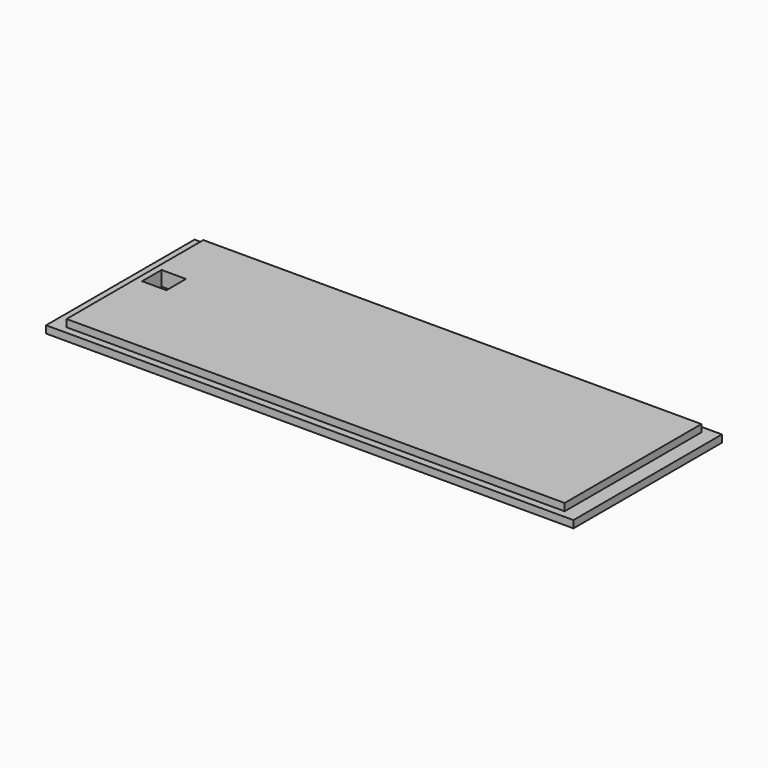
from build123d import *

# Parameters (mm, degrees)
SKETCH_W        = 108
SKETCH_H        = 38
PAD_DEPTH       = 3
SKETCH002_W     = 3
SKETCH002_H     = 38
POCKET_DEPTH    = 1.5
SKETCH003_W     = 3
SKETCH003_H     = 38
POCKET001_DEPTH = 1.5
SKETCH004_W     = 102
SKETCH004_H     = 1.5
POCKET002_DEPTH = 1.5
SKETCH005_W     = 102
SKETCH005_H     = 1.5
POCKET003_DEPTH = 1.5
SKETCH006_W     = 5
SKETCH006_H     = 5
POCKET004_DEPTH = 3


with BuildPart() as part:
    # Sketch → Pad (new body)
    with BuildSketch(Plane.XY):
        with Locations((54, -19)):
            Rectangle(SKETCH_W, SKETCH_H)
    extrude(amount=PAD_DEPTH)

    # Sketch002 (on Face6 of Pad) → Pocket (cut)
    with BuildSketch(Plane.XY.offset(3)):
        with Locations((1.5, -19)):
            Rectangle(SKETCH002_W, SKETCH002_H)
    extrude(amount=-POCKET_DEPTH, mode=Mode.SUBTRACT)

    # Sketch003 (on Face4 of Pocket) → Pocket001 (cut)
    with BuildSketch(Plane.XY.offset(3)):
        with Locations((106.5, -19)):
            Rectangle(SKETCH003_W, SKETCH003_H)
    extrude(amount=-POCKET001_DEPTH, mode=Mode.SUBTRACT)

    # Sketch004 (on Face6 of Pocket001) → Pocket002 (cut)
    with BuildSketch(Plane.XY.offset(3)):
        with Locations((54, -0.75)):
            Rectangle(SKETCH004_W, SKETCH004_H)
    extrude(amount=-POCKET002_DEPTH, mode=Mode.SUBTRACT)

    # Sketch005 (on Face12 of Pocket002) → Pocket003 (cut)
    with BuildSketch(Plane.XY.offset(3)):
        with Locations((54, -37.25)):
            Rectangle(SKETCH005_W, SKETCH005_H)
    extrude(amount=-POCKET003_DEPTH, mode=Mode.SUBTRACT)

    # Sketch006 (on Face13 of Pocket003) → Pocket004 (cut)
    with BuildSketch(Plane.XY.offset(3)):
        with Locations((6.75, -16.25)):
            Rectangle(SKETCH006_W, SKETCH006_H)
    extrude(amount=-POCKET004_DEPTH, mode=Mode.SUBTRACT)


solid = part.part
